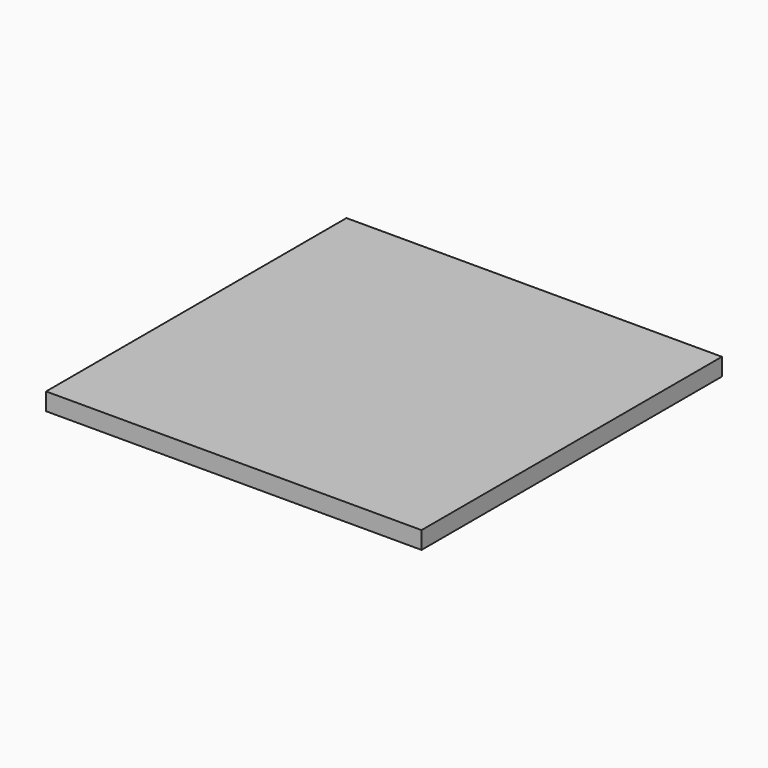
from build123d import *

# Parameters (mm, degrees)
F0_R     = 37
F1_DEPTH = 2
F0_W     = 86
F0_H     = 86
F2_DEPTH = 4


with BuildPart() as f1:
    # F0 (on Top) → F1 (new body)
    with BuildSketch(Plane.XY):
        Circle(F0_R)
    extrude(amount=-F1_DEPTH)

    # F0 (on Top) → F2 (join)
    with BuildSketch(Plane.XY):
        Rectangle(F0_W, F0_H)
        Circle(F0_R, mode=Mode.SUBTRACT)
        Circle(F0_R)
    extrude(amount=F2_DEPTH)


solid = f1.part
